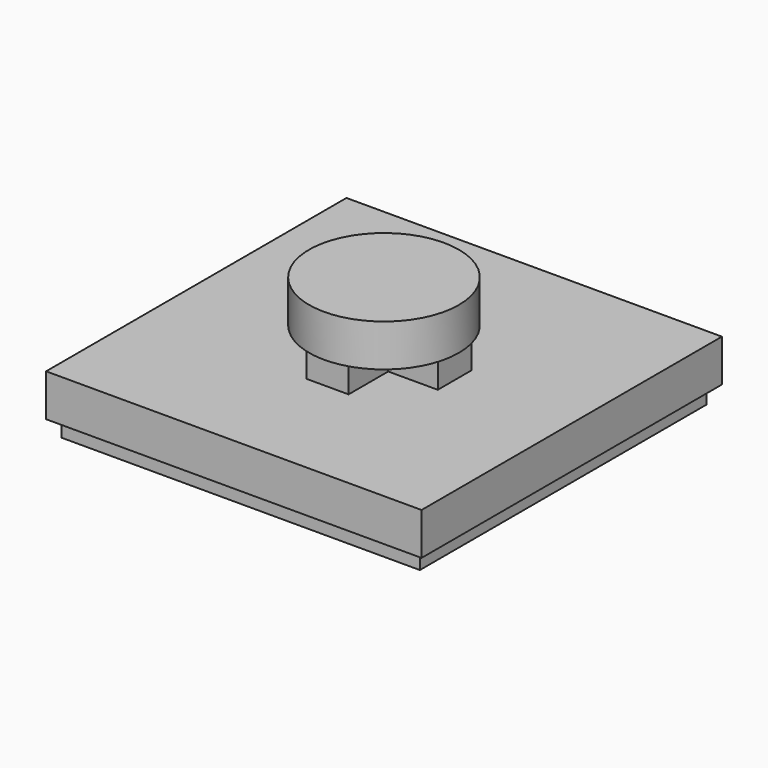
from build123d import *

# Parameters (mm, degrees)
F1_W     = 17
F1_H     = 17
F2_DEPTH = 0.8
F3_W     = 17.8
F3_H     = 17.8
F3_W_2   = 17
F3_H_2   = 17
F4_DEPTH = 2
F5_W     = 2
F5_H     = 2.35
F5_H_2   = 2
F5_W_2   = 2.35
F6_DEPTH = 1.2
F7_R     = 3.55
F8_DEPTH = 2


with BuildPart() as f2:
    # F1 (on Top) → F2 (new body)
    with BuildSketch(Plane.XY):
        Rectangle(F1_W, F1_H)
    extrude(amount=F2_DEPTH)


with BuildPart() as f4:
    # F3 (on face) → F4 (new body)
    with BuildSketch(Plane.XY.offset(0.8)):
        Rectangle(F3_W, F3_H)
        Rectangle(F3_W_2, F3_H_2, mode=Mode.SUBTRACT)
        Rectangle(F3_W_2, F3_H_2)
    extrude(amount=F4_DEPTH)

    # F5 (on face) → F6 (join)
    with BuildSketch(Plane.XY.offset(2.8)):
        with Locations((0, 2.175)):
            Rectangle(F5_W, F5_H)
        Rectangle(F5_W, F5_H_2)
        with Locations((2.175, 0)):
            Rectangle(F5_W_2, F5_H_2)
        with Locations((-2.175, 0)):
            Rectangle(F5_W_2, F5_H_2)
        with Locations((0, -2.175)):
            Rectangle(F5_W, F5_H)
    extrude(amount=F6_DEPTH)

    # F7 (on face) → F8 (join)
    with BuildSketch(Plane.XY.offset(4)):
        Circle(F7_R)
        Polygon((-1, 3.35), (1, 3.35), (1, 1), (3.35, 1), (3.35, -1), (1, -1), (1, -3.35), (-1, -3.35), (-1, -1), (-3.35, -1), (-3.35, 1), (-1, 1), align=None, mode=Mode.SUBTRACT)
        Polygon((1, 1), (1, 3.35), (-1, 3.35), (-1, 1), (-3.35, 1), (-3.35, -1), (-1, -1), (-1, -3.35), (1, -3.35), (1, -1), (3.35, -1), (3.35, 1), align=None)
    extrude(amount=F8_DEPTH)


solid = Compound([f2.part, f4.part])
